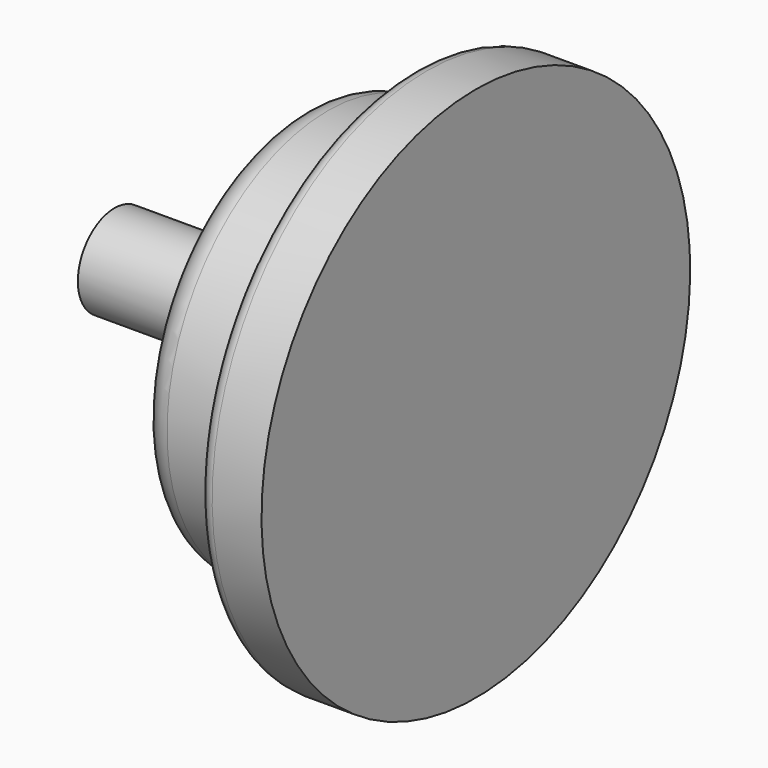
from build123d import *


with BuildPart() as f1:
    # F0 (on Front) → F1 (revolve)
    with BuildSketch(Plane.XZ):
        with BuildLine():
            Line((27.5, 0), (27.5, 19))
            Line((27.5, 19), (24, 19))
            ThreePointArc((24, 19), (23.292893, 18.707107), (23, 18))
            Line((23, 18), (23, 14.25))
            Line((23, 14.25), (17, 14.25))
            ThreePointArc((17, 14.25), (15.585786, 13.664214), (15, 12.25))
            Line((15, 12.25), (15, 6.612264))
            Line((15, 6.612264), (9.176388, 3.25))
            Line((9.176388, 3.25), (1.876388, 3.25))
            Line((1.876388, 3.25), (0, 0))
            Line((0, 0), (27.5, 0))
        make_face()
    revolve(axis=Axis((13.75, 0, 0), (1, 0, 0)))


solid = f1.part
